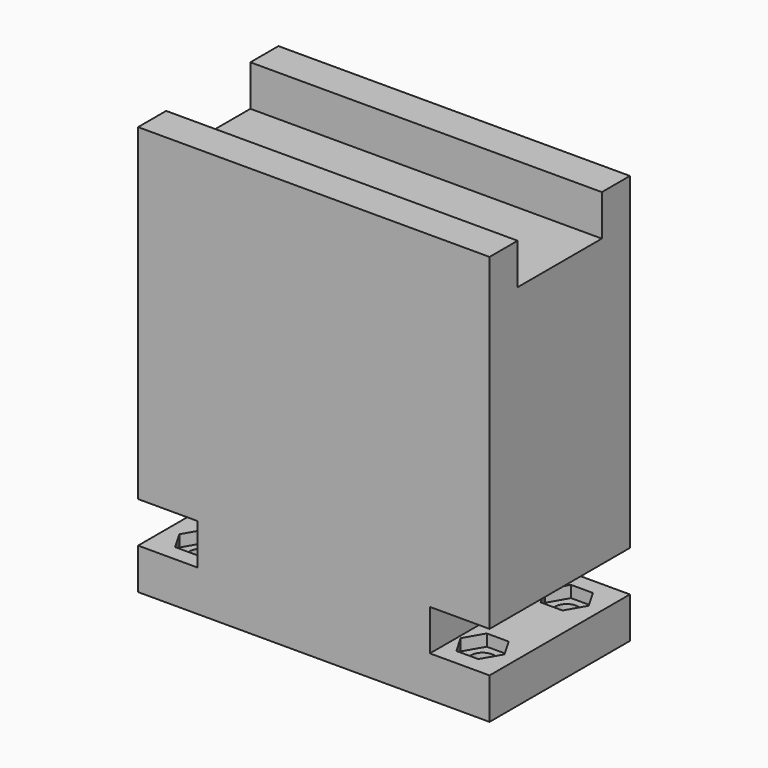
from build123d import *

# Parameters (mm, degrees)
F0_W     = 60.1
F0_H     = 30
F0_R     = 2
F1_DEPTH = 5
F2_W     = 60.1
F2_H     = 30
F3_DEPTH = 2
F4_W     = 39.7
F4_H     = 30
F5_DEPTH = 7
F6_W     = 60.1
F6_H     = 30
F7_DEPTH = 49
F8_W     = 60.1
F8_H     = 6
F9_DEPTH = 7


with BuildPart() as f1:
    # F0 (on Top) → F1 (new body)
    with BuildSketch(Plane.XY):
        Rectangle(F0_W, F0_H)
        with Locations((-24.05, -9)):
            Circle(F0_R, mode=Mode.SUBTRACT)
        with Locations((24.05, -9)):
            Circle(F0_R, mode=Mode.SUBTRACT)
        with Locations((-24.05, 9)):
            Circle(F0_R, mode=Mode.SUBTRACT)
        with Locations((24.05, 9)):
            Circle(F0_R, mode=Mode.SUBTRACT)
    extrude(amount=F1_DEPTH)

    # F2 (on face) → F3 (join)
    with BuildSketch(Plane.XY.offset(5)):
        Rectangle(F2_W, F2_H)
        Polygon((-25.9263883749, -5.75), (-22.1736116251, -5.75), (-20.2972232503, -9), (-22.1736116251, -12.25), (-25.9263883749, -12.25), (-27.8027767497, -9), align=None, mode=Mode.SUBTRACT)
        Polygon((20.2972232503, -9), (22.1736116251, -5.75), (25.9263883749, -5.75), (27.8027767497, -9), (25.9263883749, -12.25), (22.1736116251, -12.25), align=None, mode=Mode.SUBTRACT)
        Polygon((-22.1736116251, 5.75), (-25.9263883749, 5.75), (-27.8027767497, 9), (-25.9263883749, 12.25), (-22.1736116251, 12.25), (-20.2972232503, 9), align=None, mode=Mode.SUBTRACT)
        Polygon((25.9263883749, 5.75), (22.1736116251, 5.75), (20.2972232503, 9), (22.1736116251, 12.25), (25.9263883749, 12.25), (27.8027767497, 9), align=None, mode=Mode.SUBTRACT)
    extrude(amount=F3_DEPTH)

    # F4 (on face) → F5 (join)
    with BuildSketch(Plane.XY.offset(7)):
        Rectangle(F4_W, F4_H)
    extrude(amount=F5_DEPTH)

    # F6 (on face) → F7 (join)
    with BuildSketch(Plane.XY.offset(14)):
        Rectangle(F6_W, F6_H)
    extrude(amount=F7_DEPTH)

    # F8 (on face) → F9 (join)
    with BuildSketch(Plane.XY.offset(63)):
        with Locations((0, 12)):
            Rectangle(F8_W, F8_H)
        with Locations((0, -12)):
            Rectangle(F8_W, F8_H)
    extrude(amount=F9_DEPTH)


solid = f1.part
